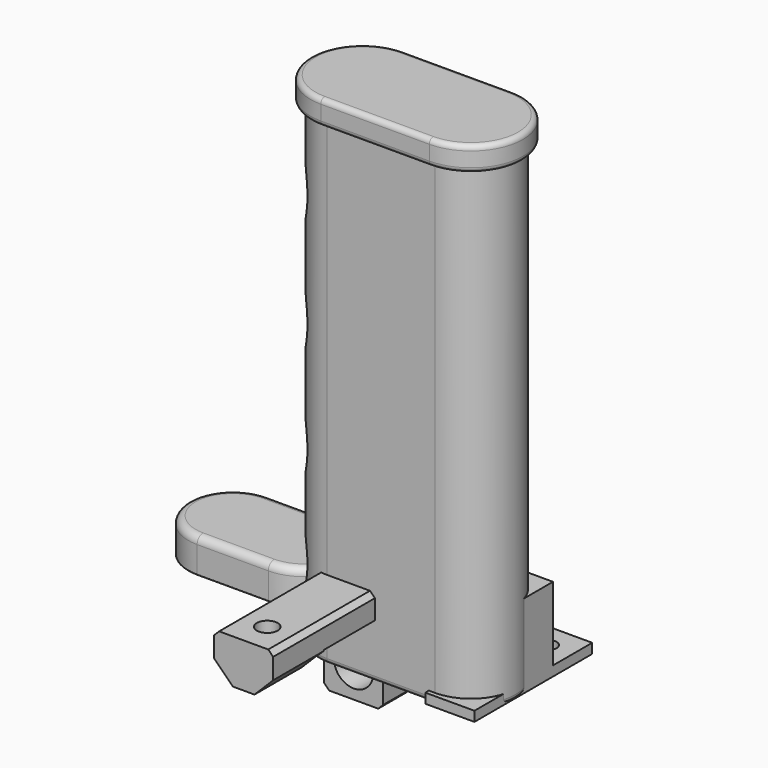
from build123d import *

# Parameters (mm, degrees)
SKETCH_W          = 12
SKETCH_H          = 12
SKETCH_R          = 4
PAD_DEPTH         = 7
PAD_FACE2_W       = 7
PAD_FACE2_H       = 12
PAD001_DEPTH      = 10
SKETCH001_W       = 12
SKETCH001_H       = 5
PAD002_DEPTH      = 30
SKETCH002_R       = 2.125
POCKET_DEPTH      = 5.001
SKETCH003_W       = 12
SKETCH003_H       = 12
SKETCH003_R       = 2.125
PAD003_DEPTH      = 4
CHAMFER_SIZE      = 1
CHAMFER_FACE13_W  = 12
CHAMFER_FACE13_H  = 5
POCKET001_DEPTH   = 2
CHAMFER001_SIZE   = 1
CHAMFER002_SIZE   = 1
CHAMFER003_SIZE   = 3.8
SKETCH004_W       = 10
SKETCH004_H       = 10
SKETCH004_R       = 1.75
PAD004_DEPTH      = 17
SKETCH005_W       = 10
SKETCH005_H       = 2
PAD005_DEPTH      = 10
SKETCH006_W       = 10
SKETCH006_H       = 2
PAD006_DEPTH      = 10
SKETCH007_R       = 1.75
POCKET002_DEPTH   = 2.001
PAD007_DEPTH      = 5
PAD008_DEPTH      = 2
FILLET_R          = 1.5
FILLET001_R       = 0.5
FILLET002_R       = 0.2
PAD010_DEPTH      = 10
PAD010_DEPTH_BACK = 10
PAD009_DEPTH      = 100
PAD011_DEPTH      = 2
PAD012_DEPTH      = 3
FILLET003_R       = 1
FILLET004_R       = 1
FILLET005_R       = 1


with BuildPart() as body:
    # Sketch → Pad (new body)
    with BuildSketch(Plane.XZ):
        Rectangle(SKETCH_W, SKETCH_H)
        Circle(SKETCH_R, mode=Mode.SUBTRACT)
    extrude(amount=PAD_DEPTH)

    # Pad Face2 → Pad001 (add)
    with BuildSketch(Plane(origin=(0, -3.5, 6), x_dir=(0, 1, 0), z_dir=(0, 0, 1))):
        Rectangle(PAD_FACE2_W, PAD_FACE2_H)
    extrude(amount=PAD001_DEPTH)

    # Sketch001 (on Face8 of Pad001) → Pad002 (join)
    with BuildSketch(Plane.XZ.offset(7)):
        with Locations((0, 13.5)):
            Rectangle(SKETCH001_W, SKETCH001_H)
    extrude(amount=PAD002_DEPTH)

    # Sketch002 (on Face13 of Pad002) → Pocket (cut, through all)
    with BuildSketch(Plane(origin=(0, 0, 11), x_dir=(1, 0, 0), z_dir=(0, 0, -1))):
        with Locations((0, 29)):
            Circle(SKETCH002_R)
    extrude(amount=-POCKET_DEPTH, mode=Mode.SUBTRACT)

    # Sketch003 (on Face13 of Pocket) → Pad003 (join)
    with BuildSketch(Plane(origin=(0, 0, 11), x_dir=(1, 0, 0), z_dir=(0, 0, -1))):
        with Locations((0, 29)):
            Rectangle(SKETCH003_W, SKETCH003_H)
        with Locations((0, 29)):
            Circle(SKETCH003_R, mode=Mode.SUBTRACT)
    extrude(amount=PAD003_DEPTH)

    # Chamfer
    chamfer_edges = [body.edges().sort_by_distance(p)[0] for p in [
        (0, -7, 11),
    ]]
    chamfer(chamfer_edges, length=CHAMFER_SIZE)

    # Chamfer Face13 → Pocket001 (cut)
    with BuildSketch(Plane(origin=(0, -37, 13.5), x_dir=(-1, 0, 0), z_dir=(0, -1, 0))):
        Rectangle(CHAMFER_FACE13_W, CHAMFER_FACE13_H)
    extrude(amount=-POCKET001_DEPTH, mode=Mode.SUBTRACT)

    # Chamfer001
    chamfer001_edges = [body.edges().sort_by_distance(p)[0] for p in [
        (0, -23, 11),
    ]]
    chamfer(chamfer001_edges, length=CHAMFER001_SIZE)

    # Chamfer002
    chamfer002_edges = [body.edges().sort_by_distance(p)[0] for p in [
        (-6, -3.5, -6),
        (6, -3.5, -6),
        (-6, -21, 16),
        (-6, -3.5, 16),
        (6, -3.5, 16),
        (6, -21, 16),
    ]]
    chamfer(chamfer002_edges, length=CHAMFER002_SIZE)

    # Chamfer003
    chamfer003_edges = [body.edges().sort_by_distance(p)[0] for p in [
        (6, -29, 7),
        (-6, -29, 7),
    ]]
    chamfer(chamfer003_edges, length=CHAMFER003_SIZE)


with BuildPart() as body001:
    # Sketch004 → Pad004 (new body)
    with BuildSketch(Plane.XY):
        with Locations((5, 5)):
            Rectangle(SKETCH004_W, SKETCH004_H)
        with Locations((5, 5)):
            Circle(SKETCH004_R, mode=Mode.SUBTRACT)
    extrude(amount=PAD004_DEPTH)

    # Sketch005 (on Face3 of Pad004) → Pad005 (join)
    with BuildSketch(Plane(origin=(0, 10, 0), x_dir=(-1, 0, 0), z_dir=(0, 1, 0))):
        with Locations((-5, 1)):
            Rectangle(SKETCH005_W, SKETCH005_H)
    extrude(amount=PAD005_DEPTH)

    # Sketch006 (on Face1 of Pad005) → Pad006 (join)
    with BuildSketch(Plane.XZ):
        with Locations((5, 1)):
            Rectangle(SKETCH006_W, SKETCH006_H)
    extrude(amount=PAD006_DEPTH)

    # Sketch007 (on Face2 of Pad006) → Pocket002 (cut, through all)
    with BuildSketch(Plane.XY.offset(2)):
        with Locations((5, 15)):
            Circle(SKETCH007_R)
        with Locations((5, -5)):
            Circle(SKETCH007_R)
    extrude(amount=-POCKET002_DEPTH, mode=Mode.SUBTRACT)


with BuildPart() as body001_1:
    # Body001 placement: moved
    add(body001.part.moved(Location((17, 0, 0))))


with BuildPart() as body002:
    # Sketch009 → Pad007 (new body)
    with BuildSketch(Plane.XY):
        with BuildLine():
            ThreePointArc((0, 9.1), (-9.1, 0), (0, -9.1))
            Line((0, -9.1), (14.5, -9.1))
            ThreePointArc((14.5, -9.1), (23.6, 0), (14.5, 9.1))
            Line((0, 9.1), (14.5, 9.1))
        make_face()
        with BuildLine():
            ThreePointArc((0, 7.9), (-7.9, 0), (0, -7.9))
            Line((0, -7.9), (14.5, -7.9))
            ThreePointArc((14.5, -7.9), (22.4, 0), (14.5, 7.9))
            Line((0, 7.9), (14.5, 7.9))
        make_face(mode=Mode.SUBTRACT)
    extrude(amount=PAD007_DEPTH)

    # Sketch010 (on Face10 of Pad007) → Pad008 (join)
    with BuildSketch(Plane.XY.offset(5)):
        with BuildLine():
            ThreePointArc((0, 9.1), (-9.1, 0), (0, -9.1))
            Line((0, -9.1), (14.5, -9.1))
            ThreePointArc((14.5, -9.1), (23.6, 0), (14.5, 9.1))
            Line((0, 9.1), (14.5, 9.1))
        make_face()
    extrude(amount=PAD008_DEPTH)

    # Fillet
    fillet_edges = [body002.edges().sort_by_distance(p)[0] for p in [
        (7.25, -9.1, 7),
        (23.6, 0, 7),
        (7.25, 9.1, 7),
        (-9.1, 0, 7),
    ]]
    fillet(fillet_edges, radius=FILLET_R)

    # Fillet001
    fillet001_edges = [body002.edges().sort_by_distance(p)[0] for p in [
        (-7.9, 0, 0),
        (7.25, -7.9, 0),
        (7.25, 7.9, 0),
        (22.4, 0, 0),
    ]]
    fillet(fillet001_edges, radius=FILLET001_R)

    # Fillet002
    fillet002_edges = [body002.edges().sort_by_distance(p)[0] for p in [
        (7.25, -9.1, 0),
        (-9.1, 0, 0),
        (7.25, 9.1, 0),
        (23.6, 0, 0),
    ]]
    fillet(fillet002_edges, radius=FILLET002_R)


with BuildPart() as body002_1:
    # Body002 placement: moved
    add(body002.part.moved(Location((-39, 11, 0))))


with BuildPart() as body004:
    # Sketch012 → Pad010 (new body, two sides)
    with BuildSketch(Plane.XZ) as pad010_sk:
        with BuildLine():
            Line((-27.8, 92), (-27.8, 7))
            Line((-27.8, 7), (-17.6, 7))
            ThreePointArc((-17.6, 7), (-9.1, 15.5), (-17.6, 24))
            add(Edge.make_bspline(
                [(-19.510267, 24.622111), (-18.857027, 24.110737), (-17.6, 24), (-17.6, 24)],
                knots=[0, 0, 0, 0, 1, 1, 1, 1], degree=3))
            ThreePointArc((-19.510267, 24.622111), (-19.770295, 25.449558), (-19.1, 26))
            ThreePointArc((-19.1, 26), (-9.1, 36), (-19.1, 46))
            ThreePointArc((-19.1, 46), (-20.224872, 46.781282), (-19.6, 48))
            ThreePointArc((-19.6, 48), (-9.1, 58.5), (-19.6, 69))
            ThreePointArc((-19.6, 69), (-20.6, 70), (-19.6, 71))
            ThreePointArc((-19.6, 71), (-9.1, 81.5), (-19.6, 92))
            Line((-19.6, 92), (-27.8, 92))
        make_face()
    extrude(amount=PAD010_DEPTH)
    extrude(pad010_sk.sketch, amount=-PAD010_DEPTH_BACK)


with BuildPart() as cut:
    # Sketch011 → Pad009 (new body)
    with BuildSketch(Plane.XY):
        with BuildLine():
            ThreePointArc((-3.8, 9.1), (-12.9, 0), (-3.8, -9.1))
            Line((-3.8, -9.1), (18.3, -9.1))
            ThreePointArc((18.3, -9.1), (27.4, 0), (18.3, 9.1))
            Line((-3.8, 9.1), (18.3, 9.1))
        make_face()
        with BuildLine():
            ThreePointArc((0, 7.9), (-7.9, 0), (0, -7.9))
            Line((0, -7.9), (14.5, -7.9))
            ThreePointArc((14.5, -7.9), (22.4, 0), (14.5, 7.9))
            Line((0, 7.9), (14.5, 7.9))
        make_face(mode=Mode.SUBTRACT)
    extrude(amount=PAD009_DEPTH)

    # Sketch013 (on Face10 of Pad009) → Pad011 (join)
    with BuildSketch(Plane.XY.offset(100)):
        with BuildLine():
            ThreePointArc((-3.8, 10.6), (-14.4, 0), (-3.8, -10.6))
            Line((-3.8, -10.6), (18.3, -10.6))
            ThreePointArc((18.3, -10.6), (28.9, 0), (18.3, 10.6))
            Line((-3.8, 10.6), (18.3, 10.6))
        make_face()
    extrude(amount=PAD011_DEPTH)

    # Pad011 Face4 → Pad012 (add)
    with BuildSketch(Plane(origin=(7.25, 0, 100), x_dir=(0, -1, 0), z_dir=(0, 0, -1))):
        with BuildLine():
            ThreePointArc((10.6, 11.05), (0, 21.65), (-10.6, 11.05))
            Line((-10.6, 11.05), (-10.6, -11.05))
            ThreePointArc((-10.6, -11.05), (0, -21.65), (10.6, -11.05))
            Line((10.6, -11.05), (10.6, 11.05))
        make_face()
        with BuildLine():
            ThreePointArc((-9.1, 11.05), (0, 20.15), (9.1, 11.05))
            Line((9.1, 11.05), (9.1, -11.05))
            ThreePointArc((9.1, -11.05), (0, -20.15), (-9.1, -11.05))
            Line((-9.1, -11.05), (-9.1, 11.05))
        make_face(mode=Mode.SUBTRACT)
    extrude(amount=PAD012_DEPTH)

    # Fillet003
    fillet003_edges = [cut.edges().sort_by_distance(p)[0] for p in [
        (-14.4, 0, 97),
    ]]
    fillet(fillet003_edges, radius=FILLET003_R)

    # Fillet004
    fillet004_edges = [cut.edges().sort_by_distance(p)[0] for p in [
        (-14.4, 0, 102),
    ]]
    fillet(fillet004_edges, radius=FILLET004_R)

    # Fillet005
    fillet005_edges = [cut.edges().sort_by_distance(p)[0] for p in [
        (-12.9, 0, 0),
    ]]
    fillet(fillet005_edges, radius=FILLET005_R)

    # Cut: cut Body004
    add(body004.part, mode=Mode.SUBTRACT)


solid = Compound([body.part, body001_1.part, body002_1.part, cut.part])
